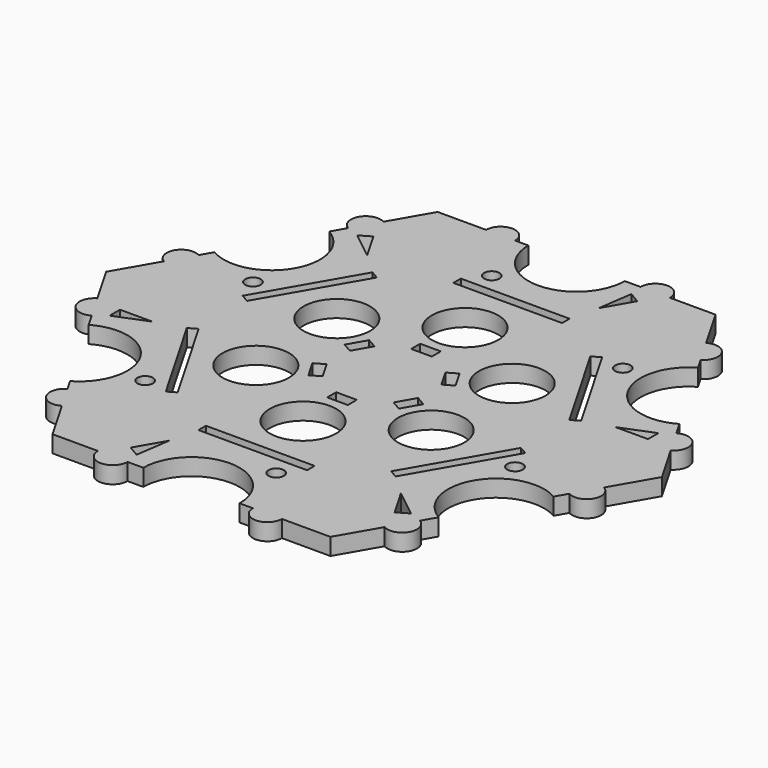
from build123d import *

# Parameters (mm, degrees)
F0_R     = 6.992362
F0_W     = 22.860002
F0_H     = 1.970686
F0_W_2   = 4.335518
F0_H_2   = 2.364827
F1_DEPTH = 3.556
F2_R     = 1.625071
F3_DEPTH = 25.4


with BuildPart() as f1:
    # F0 (on Top) → F1 (new body)
    with BuildSketch(Plane.XY):
        with BuildLine():
            Line((-58.420235, 0), (0, 0))
            Line((0, 0), (-29.210117, 50.593407))
            Line((-29.210117, 50.593407), (-33.983866, 42.325032))
            ThreePointArc((-33.983866, 42.325032), (-38.230603, 41.187123), (-37.092693, 36.940386))
            Line((-37.092693, 36.940386), (-38.756345, 34.058855))
            ThreePointArc((-38.756345, 34.058855), (-35.053024, 20.237873), (-48.874007, 16.534552))
            Line((-48.874007, 16.534552), (-50.269638, 14.117248))
            ThreePointArc((-50.269638, 14.117248), (-54.441021, 12.999529), (-53.323302, 8.828147))
            Line((-53.323302, 8.828147), (-58.420235, 0))
        make_face()
        with Locations((-18.432006, 10.641724)):
            Circle(F0_R, mode=Mode.SUBTRACT)
        Polygon((-7.449457, 6.804059), (-9.617217, 3.04939), (-11.665217, 4.231803), (-9.497458, 7.986473), align=None, mode=Mode.SUBTRACT)
        Polygon((-33.875014, 6.35952), (-35.581678, 7.344863), (-24.151677, 27.142205), (-22.445013, 26.156862), align=None, mode=Mode.SUBTRACT)
        with BuildLine():
            Line((-29.210117, -50.593407), (0, 0))
            Line((0, 0), (-58.420235, 0))
            Line((-58.420235, 0), (-53.646486, -8.268375))
            ThreePointArc((-53.646486, -8.268375), (-54.784396, -12.515112), (-50.537659, -13.653022))
            Line((-50.537659, -13.653022), (-48.874007, -16.534552))
            ThreePointArc((-48.874007, -16.534552), (-35.053024, -20.237873), (-38.756345, -34.058855))
            Line((-38.756345, -34.058855), (-37.360714, -36.476159))
            ThreePointArc((-37.360714, -36.476159), (-38.478433, -40.647542), (-34.30705, -41.765261))
            Line((-34.30705, -41.765261), (-29.210117, -50.593407))
        make_face()
        Polygon((-22.445013, -26.156862), (-24.151677, -27.142205), (-35.581678, -7.344863), (-33.875014, -6.35952), align=None, mode=Mode.SUBTRACT)
        with Locations((-18.432006, -10.641724)):
            Circle(F0_R, mode=Mode.SUBTRACT)
        Polygon((-9.617217, -3.04939), (-7.449457, -6.804059), (-9.497458, -7.986473), (-11.665217, -4.231803), align=None, mode=Mode.SUBTRACT)
        with BuildLine():
            Line((-29.210117, 50.593407), (0, 0))
            Line((0, 0), (29.210117, 50.593407))
            Line((29.210117, 50.593407), (19.66262, 50.593407))
            ThreePointArc((19.66262, 50.593407), (16.553793, 53.702235), (13.444966, 50.593407))
            Line((13.444966, 50.593407), (10.117661, 50.593407))
            ThreePointArc((10.117661, 50.593407), (0, 40.475746), (-10.117661, 50.593407))
            Line((-10.117661, 50.593407), (-12.908924, 50.593407))
            ThreePointArc((-12.908924, 50.593407), (-15.962588, 53.647071), (-19.016252, 50.593407))
            Line((-19.016252, 50.593407), (-29.210117, 50.593407))
        make_face()
        with Locations((0, 33.501726)):
            Rectangle(F0_W, F0_H, mode=Mode.SUBTRACT)
        with Locations((0, 11.035863)):
            Rectangle(F0_W_2, F0_H_2, mode=Mode.SUBTRACT)
        with Locations((0, 21.283448)):
            Circle(F0_R, mode=Mode.SUBTRACT)
        with BuildLine():
            Line((29.210117, 50.593407), (0, 0))
            Line((0, 0), (58.420235, 0))
            Line((58.420235, 0), (53.646486, 8.268375))
            ThreePointArc((53.646486, 8.268375), (54.784396, 12.515112), (50.537659, 13.653022))
            Line((50.537659, 13.653022), (48.874007, 16.534552))
            ThreePointArc((48.874007, 16.534552), (35.053024, 20.237873), (38.756345, 34.058855))
            Line((38.756345, 34.058855), (37.360714, 36.476159))
            ThreePointArc((37.360714, 36.476159), (38.478433, 40.647542), (34.30705, 41.765261))
            Line((34.30705, 41.765261), (29.210117, 50.593407))
        make_face()
        Polygon((9.617217, 3.04939), (7.449457, 6.804059), (9.497458, 7.986473), (11.665217, 4.231803), align=None, mode=Mode.SUBTRACT)
        with Locations((18.432006, 10.641724)):
            Circle(F0_R, mode=Mode.SUBTRACT)
        Polygon((22.445013, 26.156862), (24.151677, 27.142205), (35.581678, 7.344863), (33.875014, 6.35952), align=None, mode=Mode.SUBTRACT)
        with BuildLine():
            Line((58.420235, 0), (0, 0))
            Line((0, 0), (29.210117, -50.593407))
            Line((29.210117, -50.593407), (33.983866, -42.325032))
            ThreePointArc((33.983866, -42.325032), (38.230603, -41.187123), (37.092693, -36.940386))
            Line((37.092693, -36.940386), (38.756345, -34.058855))
            ThreePointArc((38.756345, -34.058855), (35.053024, -20.237873), (48.874007, -16.534552))
            Line((48.874007, -16.534552), (50.269638, -14.117248))
            ThreePointArc((50.269638, -14.117248), (54.441021, -12.999529), (53.323302, -8.828147))
            Line((53.323302, -8.828147), (58.420235, 0))
        make_face()
        Polygon((33.875014, -6.35952), (35.581678, -7.344863), (24.151677, -27.142205), (22.445013, -26.156862), align=None, mode=Mode.SUBTRACT)
        Polygon((7.449457, -6.804059), (9.617217, -3.04939), (11.665217, -4.231803), (9.497458, -7.986473), align=None, mode=Mode.SUBTRACT)
        with Locations((18.432006, -10.641724)):
            Circle(F0_R, mode=Mode.SUBTRACT)
        with BuildLine():
            Line((29.210117, -50.593407), (0, 0))
            Line((0, 0), (-29.210117, -50.593407))
            Line((-29.210117, -50.593407), (-19.66262, -50.593407))
            ThreePointArc((-19.66262, -50.593407), (-16.553793, -53.702235), (-13.444966, -50.593407))
            Line((-13.444966, -50.593407), (-10.117661, -50.593407))
            ThreePointArc((-10.117661, -50.593407), (0, -40.475746), (10.117661, -50.593407))
            Line((10.117661, -50.593407), (12.908924, -50.593407))
            ThreePointArc((12.908924, -50.593407), (15.962588, -53.647071), (19.016252, -50.593407))
            Line((19.016252, -50.593407), (29.210117, -50.593407))
        make_face()
        with Locations((0, -33.501726)):
            Rectangle(F0_W, F0_H, mode=Mode.SUBTRACT)
        with Locations((0, -21.283448)):
            Circle(F0_R, mode=Mode.SUBTRACT)
        with Locations((0, -11.035863)):
            Rectangle(F0_W_2, F0_H_2, mode=Mode.SUBTRACT)
    extrude(amount=F1_DEPTH)

    # F2 (on face) → F3 (cut)
    with BuildSketch(Plane.XY.offset(3.556)):
        with Locations((8.079829, -38.428448)):
            Circle(F2_R)
        Polygon((-13.870498, -47.66334), (-12.809483, -40.399138), (-16.220229, -46.306723), align=None)
        Polygon((34.342414, -35.843874), (28.581938, -31.292907), (31.992684, -37.200492), align=None)
        with Locations((37.319927, -12.216887)):
            Circle(F2_R)
        Polygon((48.212913, 11.819466), (41.391421, 9.106231), (48.212913, 9.106231), align=None)
        with Locations((29.240098, 26.211561)):
            Circle(F2_R)
        Polygon((13.870498, 47.66334), (12.809483, 40.399138), (16.220229, 46.306723), align=None)
        with Locations((-8.079829, 38.428448)):
            Circle(F2_R)
        Polygon((-34.342414, 35.843874), (-28.581938, 31.292907), (-31.992684, 37.200492), align=None)
        with Locations((-37.319927, 12.216887)):
            Circle(F2_R)
        Polygon((-48.212913, -11.819466), (-41.391421, -9.106231), (-48.212913, -9.106231), align=None)
        with Locations((-29.240098, -26.211561)):
            Circle(F2_R)
    extrude(amount=-F3_DEPTH, mode=Mode.SUBTRACT)


solid = f1.part
